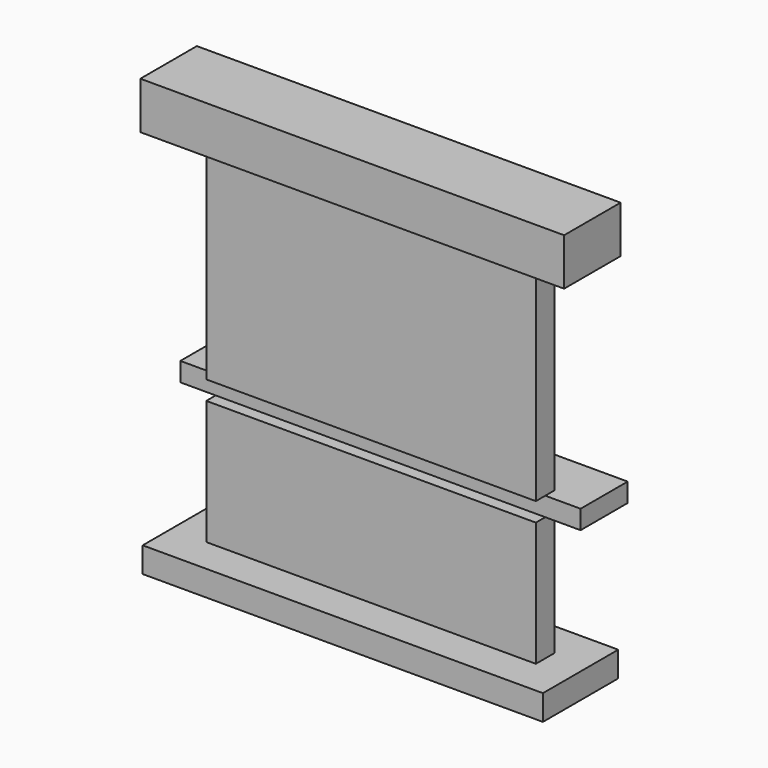
from build123d import *

# Parameters (mm, degrees)
F1_DEPTH = 9.525
F0_W     = 88.9
F0_H     = 57.15
F0_H_2   = 33.528
F2_DEPTH = 3.175
F3_DEPTH = 12.7
F4_DEPTH = 15.875


with BuildPart() as f1:
    # F0 (on Front) → F1 (new body, symmetric)
    with BuildSketch(Plane.XZ):
        Polygon((67.117094, 64.48551), (-47.182906, 64.48551), (-47.182906, 51.78551), (-34.482906, 51.78551), (54.417094, 51.78551), (67.117094, 51.78551), align=None)
    extrude(amount=F1_DEPTH, both=True)

    # F0 (on Front) → F2 (join, symmetric)
    with BuildSketch(Plane.XZ):
        with Locations((9.967094, 23.21051)):
            Rectangle(F0_W, F0_H)
        with Locations((9.967094, -27.228124)):
            Rectangle(F0_W, F0_H_2)
    extrude(amount=F2_DEPTH, both=True)


with BuildPart() as f3:
    # F0 (on Front) → F3 (new body, symmetric)
    with BuildSketch(Plane.XZ):
        Polygon((54.417094, -43.992124), (-34.482906, -43.992124), (-44.007906, -43.992124), (-44.007906, -50.819797), (63.942094, -50.819797), (63.942094, -43.992124), align=None)
    extrude(amount=F3_DEPTH, both=True)


with BuildPart() as f4:
    # F0 (on Front) → F4 (new body)
    with BuildSketch(Plane.XZ):
        Polygon((54.417094, -5.36449), (-34.482906, -5.36449), (-44.007906, -5.36449), (-44.007906, -10.464124), (-34.482906, -10.464124), (54.417094, -10.464124), (63.942094, -10.464124), (63.942094, -5.36449), align=None)
    extrude(amount=-F4_DEPTH)


solid = Compound([f1.part, f3.part, f4.part])
